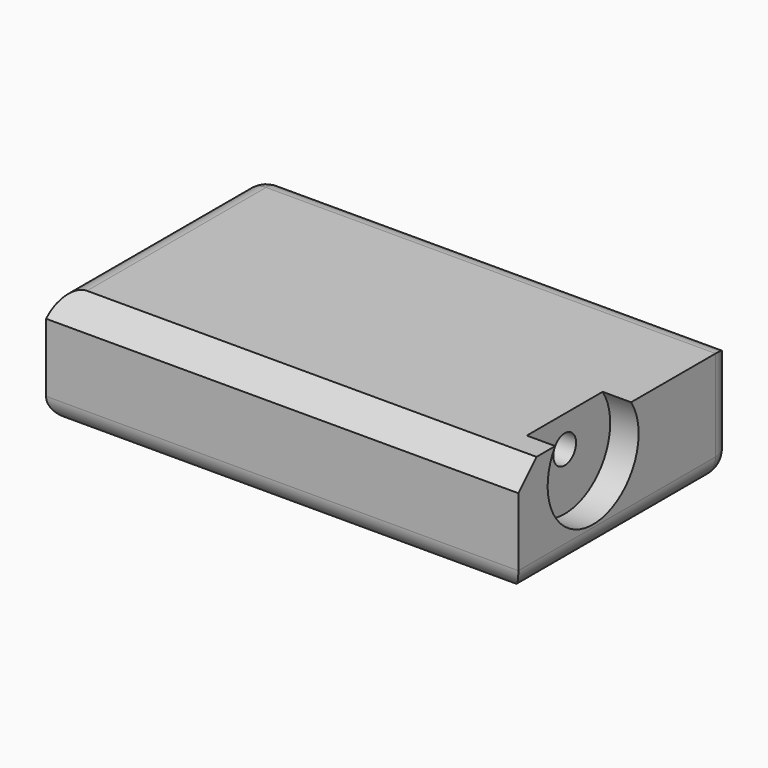
from build123d import *

# Parameters (mm, degrees)
F0_W           = 105.471175
F0_H           = 60.14101
F1_DEPTH       = 25.4
F2_SIZE        = 5.08
F3_R           = 5.08
F5_D           = 6.35
F5_CBORE_D     = 25.4
F5_CBORE_DEPTH = 6.35
F6_R           = 5.08


with BuildPart() as f1:
    # F0 (on Top) → F1 (new body)
    with BuildSketch(Plane.XY):
        with Locations((2.355178, -5.891924)):
            Rectangle(F0_W, F0_H)
    extrude(amount=F1_DEPTH)

    # F2
    f2_edges = [f1.edges().sort_by_distance(p)[0] for p in [
        (2.355179, -35.962429, 25.4),
    ]]
    chamfer(f2_edges, length=F2_SIZE)

    # F3
    f3_edges = [f1.edges().sort_by_distance(p)[0] for p in [
        (-50.380409, -3.351924, 25.4),
    ]]
    fillet(f3_edges, radius=F3_R)

    # F5 (through all)
    with Locations(Plane.YZ.offset(55.090766)):
        with Locations((-15.076851, 18.388513)):
            CounterBoreHole(F5_D / 2, F5_CBORE_D / 2, F5_CBORE_DEPTH)

    # F6
    f6_edges = [f1.edges().sort_by_distance(p)[0] for p in [
        (-50.380409, 24.178581, 10.16),
        (-48.892511, 24.178581, 23.912102),
        (2.355179, 24.178581, 0),
        (4.895179, 24.178581, 25.4),
        (55.090766, 24.178581, 12.7),
        (-50.380409, -5.891924, 0),
        (2.355179, -35.962429, 0),
        (55.090766, -5.891924, 0),
    ]]
    fillet(f6_edges, radius=F6_R)


solid = f1.part
